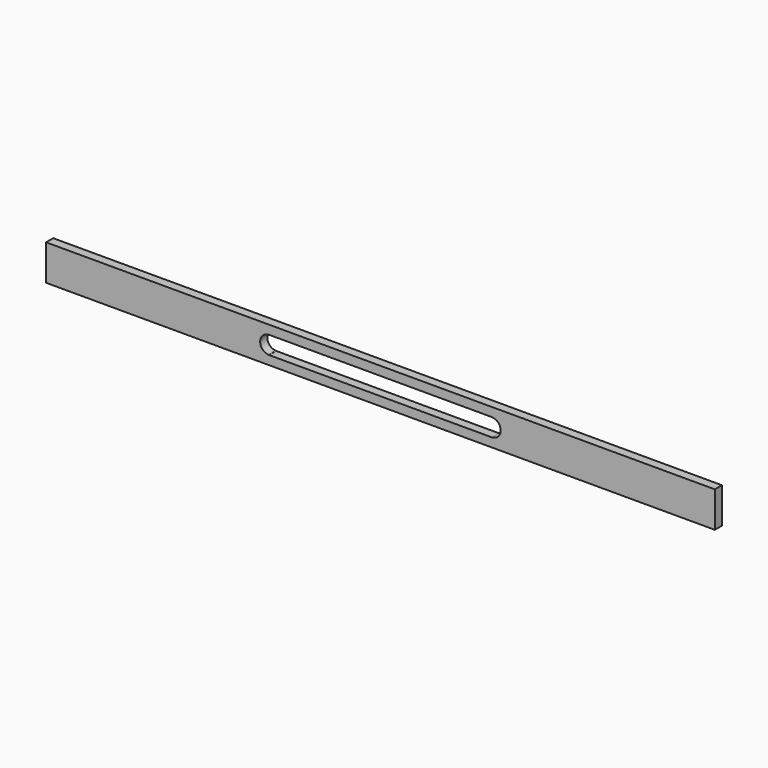
from build123d import *

# Parameters (mm, degrees)
F1_DEPTH = 10


with BuildPart() as f1:
    # F0 (on Front) → F1 (new body)
    with BuildSketch(Plane.XZ):
        Polygon((-375, -20), (375, -20), (375, -10), (125, -10), (-125, -10), (-375, -10), align=None)
        with BuildLine():
            Line((125, -10), (375, -10))
            Line((375, -10), (375, 10))
            Line((375, 10), (125, 10))
            Line((125, 10), (125, 9.858384))
            ThreePointArc((125, 9.858384), (131.97093, 6.97093), (134.858384, 0))
            ThreePointArc((134.858384, 0), (131.97093, -6.97093), (125, -9.858384))
            Line((125, -9.858384), (125, -10))
        make_face()
        with BuildLine():
            Line((-375, 10), (-375, -10))
            Line((-375, -10), (-125, -10))
            Line((-125, -10), (-125, -9.890202))
            ThreePointArc((-125, -9.890202), (-134.890202, 0), (-125, 9.890202))
            Line((-125, 9.890202), (-125, 10))
            Line((-125, 10), (-375, 10))
        make_face()
        Polygon((125, 10), (375, 10), (375, 20), (-375, 20), (-375, 10), (-125, 10), align=None)
    extrude(amount=F1_DEPTH)


solid = f1.part
